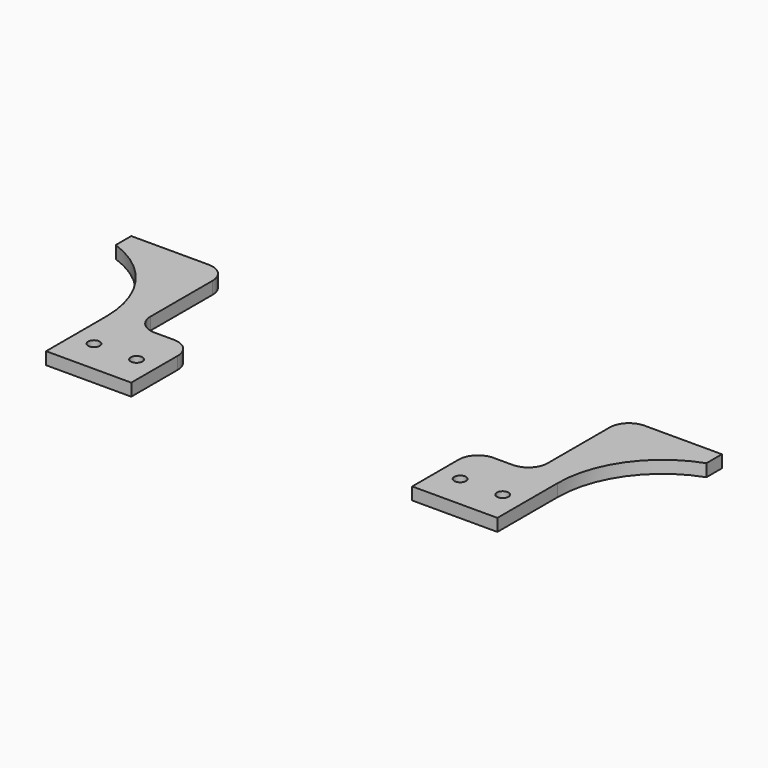
from build123d import *

# Parameters (mm, degrees)
F0_R     = 1.5
F1_DEPTH = 1.6
F2_R     = 5


with BuildPart() as f1:
    # F0 (on Top) → F1 (new body, symmetric)
    with BuildSketch(Plane.XY):
        with BuildLine():
            Line((51.2858437002, 30), (51.2858437002, 0))
            Line((51.2858437002, 0), (36.2858437002, 0))
            Line((36.2858437002, 0), (36.2858437002, -10))
            Line((36.2858437002, -10), (36.2858437002, -20))
            Line((36.2858437002, -20), (58.2858437002, -20))
            Line((58.2858437002, -20), (58.2858437002, -10))
            Line((58.2858437002, -10), (58.2858437002, -0.5072346903))
            ThreePointArc((58.2858437002, -0.5072346903), (63.2389408298, 15.1022097389), (76.2858437002, 25))
            Line((76.2858437002, 25), (76.2858437002, 30))
            Line((76.2858437002, 30), (51.2858437002, 30))
        make_face()
        with Locations((41.7858437002, -11.40625)):
            Circle(F0_R, mode=Mode.SUBTRACT)
        with Locations((52.7858437002, -11.40625)):
            Circle(F0_R, mode=Mode.SUBTRACT)
    extrude(amount=F1_DEPTH, both=True)

    # F2
    f2_edges = [f1.edges().sort_by_distance(p)[0] for p in [
        (51.285844, 30, 0),
        (51.285844, 0, 0),
        (36.285844, 0, 0),
    ]]
    fillet(f2_edges, radius=F2_R)


with BuildPart() as f3_1:
    # F3: instance of F1
    add(f1.part.mirror(Plane.YZ))


solid = Compound([f1.part, f3_1.part])
